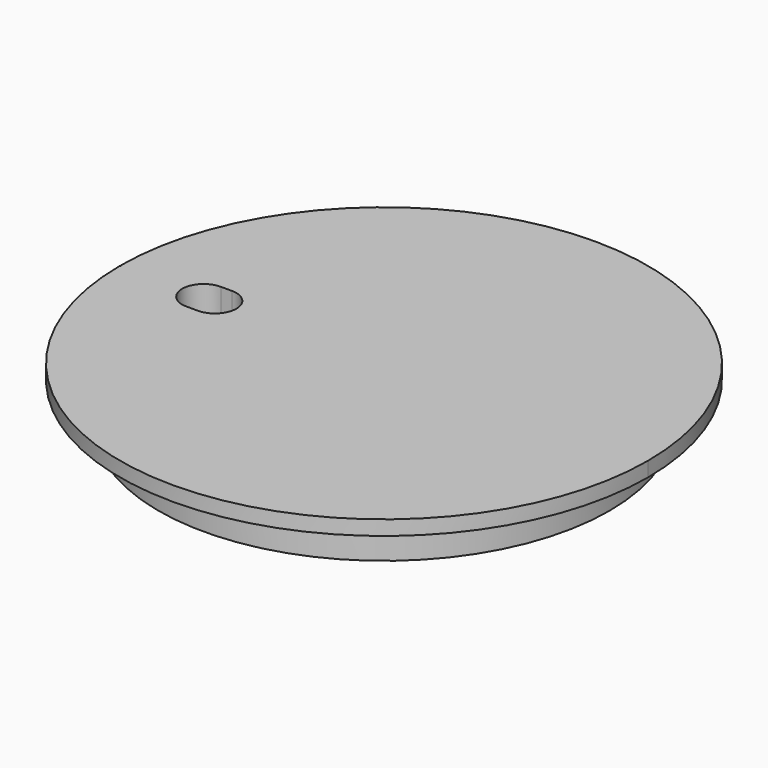
from build123d import *

# Parameters (mm, degrees)
F3_DEPTH = 6.35
F5_DEPTH = 25.4
F7_DEPTH = 3.175
F8_DEPTH = 3.302


with BuildPart() as f1:
    # F0 (on Front) → F1 (revolve)
    with BuildSketch(Plane.XZ):
        Polygon((59.4741, 0), (0, 0), (0, -12.7508), (50.8, -12.7508), (50.8, -5.626218), (59.4741, -3.302), align=None)
    revolve(axis=Axis((0, 0, -6.3754), (0, 0, -1)))

    # F2 (on face) → F3 (cut)
    with BuildSketch(Plane.XY):
        with BuildLine():
            Line((-40.64, -4.826), (-38.1, -4.826))
            ThreePointArc((-38.1, -4.826), (-33.274, 0), (-38.1, 4.826))
            Line((-38.1, 4.826), (-40.64, 4.826))
            ThreePointArc((-40.64, 4.826), (-45.466, 0), (-40.64, -4.826))
        make_face()
    extrude(amount=-F3_DEPTH, mode=Mode.SUBTRACT)

    # F4 (on face) → F5 (cut)
    with BuildSketch(Plane.XY):
        with BuildLine():
            ThreePointArc((-59.346964, -0.127), (-59.3471, 0), (-59.346964, 0.127))
            Line((-59.346964, 0.127), (-59.4741, 0.127))
            Line((-59.4741, 0.127), (-59.4741, -0.127))
            Line((-59.4741, -0.127), (-59.346964, -0.127))
        make_face()
    extrude(amount=-F5_DEPTH, mode=Mode.SUBTRACT)

    # F6 (on face) → F7 (cut)
    with BuildSketch(Plane(origin=(0, 0, -12.7508), x_dir=(1, 0, 0), z_dir=(0, 0, -1))):
        with BuildLine():
            Line((3.169708, -25.174637), (3.169708, -0.00022))
            Line((3.169708, -0.00022), (3.169708, 25.174198))
            ThreePointArc((3.169708, 25.174198), (0, 28.532442), (-3.169708, 25.174198))
            Line((-3.169708, 25.174198), (-3.169708, -0.00022))
            Line((-3.169708, -0.00022), (-3.169708, -25.174637))
            ThreePointArc((-3.169708, -25.174637), (0, -28.532881), (3.169708, -25.174637))
        make_face()
    extrude(amount=-F7_DEPTH, mode=Mode.SUBTRACT)

    # F6 (on face) → F8 (cut)
    with BuildSketch(Plane(origin=(0, 0, -12.7508), x_dir=(1, 0, 0), z_dir=(0, 0, -1))):
        with BuildLine():
            Line((3.169708, -25.174637), (3.169708, -0.00022))
            Line((3.169708, -0.00022), (3.169708, 25.174198))
            ThreePointArc((3.169708, 25.174198), (0, 28.532442), (-3.169708, 25.174198))
            Line((-3.169708, 25.174198), (-3.169708, -0.00022))
            Line((-3.169708, -0.00022), (-3.169708, -25.174637))
            ThreePointArc((-3.169708, -25.174637), (0, -28.532881), (3.169708, -25.174637))
        make_face()
    extrude(amount=-F8_DEPTH, mode=Mode.SUBTRACT)


solid = f1.part
